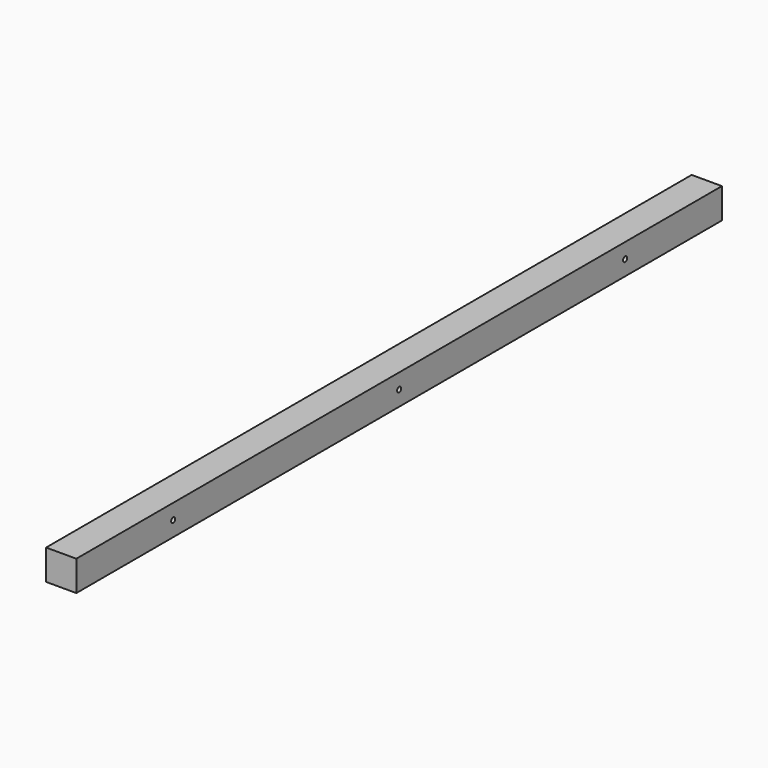
from build123d import *

# Parameters (mm, degrees)
F0_W     = 19.05
F0_H     = 19.05
F1_DEPTH = 508
F2_R     = 1.5875
F3_DEPTH = 25.4


with BuildPart() as f1:
    # F0 (on Front) → F1 (new body)
    with BuildSketch(Plane.XZ):
        with Locations((9.525, 9.525)):
            Rectangle(F0_W, F0_H)
    extrude(amount=F1_DEPTH)

    # F2 (on face) → F3 (cut)
    with BuildSketch(Plane.YZ.offset(19.05)):
        with Locations((-254, 9.525)):
            Circle(F2_R)
        with Locations((-76.2, 9.525)):
            Circle(F2_R)
        with Locations((-431.8, 9.525)):
            Circle(F2_R)
    extrude(amount=-F3_DEPTH, mode=Mode.SUBTRACT)


solid = f1.part
